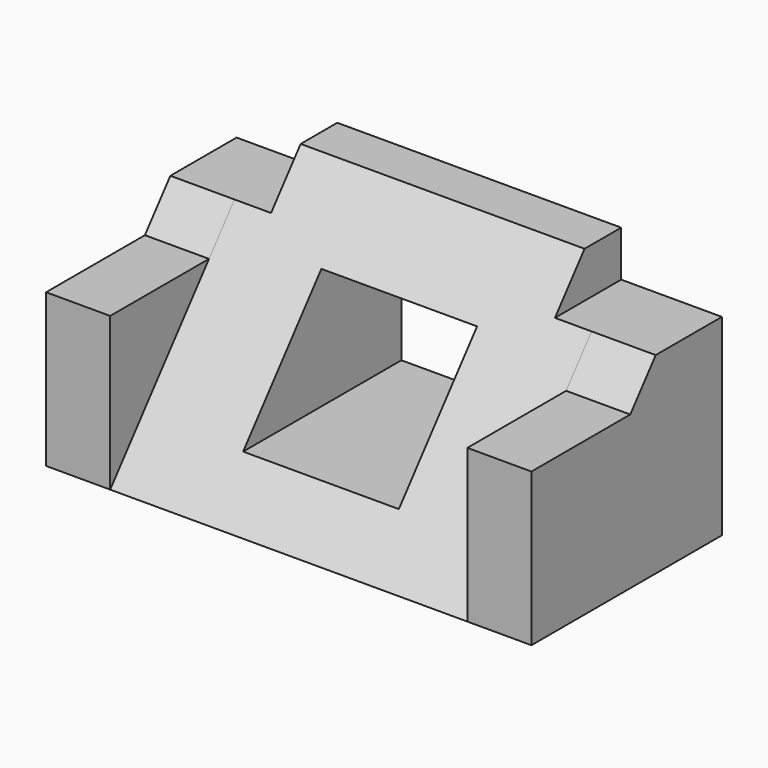
from build123d import *

# Parameters (mm, degrees)
F0_W     = 53
F0_H     = 26
F1_DEPTH = 26
F4_DEPTH = 39
F6_DEPTH = 11
F8_DEPTH = 11
F9_W     = 17
F9_H     = 17
F10_W    = 17
F10_H    = 13.2250000635


with BuildPart() as f1:
    # F0 (on Top) → F1 (new body)
    with BuildSketch(Plane.XY):
        with Locations((26.5, 13)):
            Rectangle(F0_W, F0_H)
    extrude(amount=F1_DEPTH)

    # F3 (on offset) → F4 (cut)
    with BuildSketch(Plane.YZ.offset(46)):
        Polygon((21, 26), (0, 26), (0, 0), align=None)
    extrude(amount=-F4_DEPTH, mode=Mode.SUBTRACT)

    # F5 (on face) → F6 (cut)
    with BuildSketch(Plane.YZ.offset(53)):
        Polygon((26, 26), (0, 26), (0, 16.7), (13.4884615385, 16.7), (16.9615384615, 21), (26, 21), align=None)
    extrude(amount=-F6_DEPTH, mode=Mode.SUBTRACT)

    # F7 (on face) → F8 (cut)
    with BuildSketch(Plane(origin=(0, 0, 0), x_dir=(0, -1, 0), z_dir=(-1, 0, 0))):
        Polygon((-26, 21), (-16.9615384615, 21), (-13.4884615385, 16.7), (0, 16.7), (0, 26), (-26, 26), align=None)
    extrude(amount=-F8_DEPTH, mode=Mode.SUBTRACT)

    # F9 (on face) → F11 section 0
    with BuildSketch(Plane(origin=(0, 0, 0), x_dir=(1, 0, 0), z_dir=(0, -0.7779411802, 0.6283371071))):
        with Locations((26.5, 15.5)):
            Rectangle(F9_W, F9_H)
    # F10 (on face) → F11 section 1
    with BuildSketch(Plane(origin=(0, 26, 0), x_dir=(-1, 0, 0), z_dir=(0, 1, 0))):
        with Locations((-26.5, 12.0580882932)):
            Rectangle(F10_W, F10_H)
    loft(mode=Mode.SUBTRACT)


solid = f1.part
